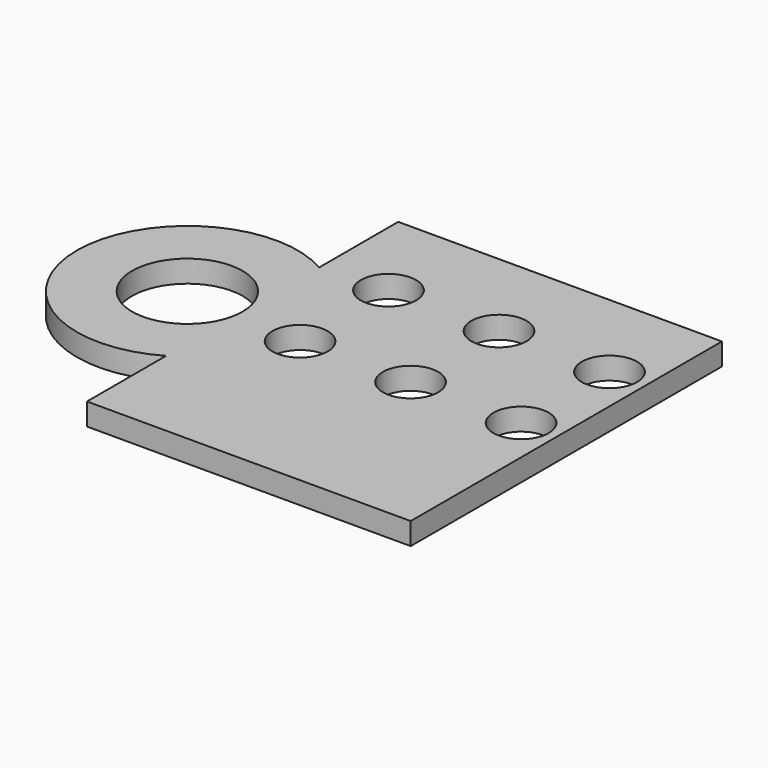
from build123d import *

# Parameters (mm, degrees)
SKETCH001_R      = 2.5
EXTRUDE001_DEPTH = 2
ARRAY_X_COUNT    = 3
ARRAY_X_PITCH    = 10
ARRAY_Y_COUNT    = 2
ARRAY_Y_PITCH    = 10
SKETCH_R         = 5
EXTRUDE_DEPTH    = 2


with BuildPart() as array:
    # Sketch001 (on Sketch) → Extrude001 (new body)
    with BuildSketch(Plane.XY):
        with Locations((6, 9)):
            Circle(SKETCH001_R)
    extrude(amount=EXTRUDE001_DEPTH)

    # Array X: Array ×3


with BuildPart() as array_1:
    add(array.part)
    with Locations(*[(i * ARRAY_X_PITCH, 0, 0) for i in range(1, ARRAY_X_COUNT)]):
        add(array.part)

    # Array Y: Array ×2


with BuildPart() as array_2:
    add(array_1.part)
    with Locations(*[(0, -i * ARRAY_Y_PITCH, 0) for i in range(1, ARRAY_Y_COUNT)]):
        add(array_1.part)


with BuildPart() as cut:
    # Sketch → Extrude (new body)
    with BuildSketch(Plane.XY):
        with BuildLine():
            ThreePointArc((0, 8.660254), (-15, 0), (0, -8.660254))
            Line((0, -17.601841), (0, -8.660254))
            Line((29.294832, -17.601841), (0, -17.601841))
            Line((29.294832, 17.601841), (29.294832, -17.601841))
            Line((0, 17.601841), (29.294832, 17.601841))
            Line((0, 8.660254), (0, 17.601841))
        make_face()
        with Locations((-5, 0)):
            Circle(SKETCH_R, mode=Mode.SUBTRACT)
    extrude(amount=EXTRUDE_DEPTH)

    # Cut: cut Array
    add(array_2.part, mode=Mode.SUBTRACT)


solid = cut.part
